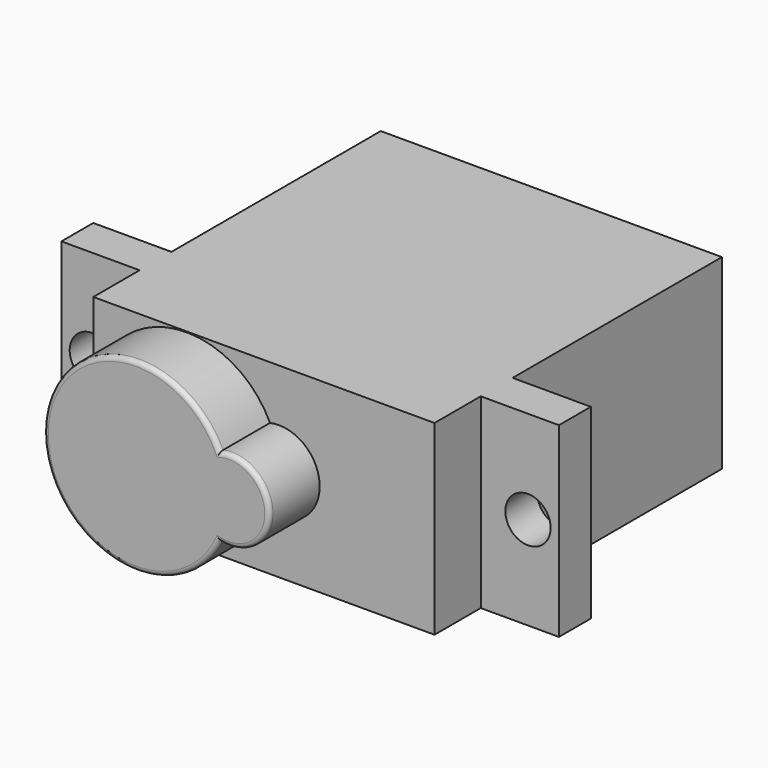
from build123d import *

# Parameters (mm, degrees)
PAD015_DEPTH            = 12.35
PAD016_DEPTH            = 4.17
SKETCH030_R             = 1.5
POCKET008_DEPTH         = 5
FILLET009_R             = 0.3
BODY006_PLACEMENT_ANGLE = 180


with BuildPart() as part:
    # Sketch028 → Pad015 (new body)
    with BuildSketch(Plane.XY):
        Polygon((0, 23.8), (22.6, 23.8), (22.6, 19.97), (27.78, 19.97), (27.78, 17.33), (22.6, 17.33), (22.6, 0), (0, 0), (0, 17.33), (-5.18, 17.33), (-5.18, 19.97), (0, 19.97), align=None)
    extrude(amount=PAD015_DEPTH)

    # Sketch029 (on Face4 of Pad015) → Pad016 (join)
    with BuildSketch(Plane(origin=(0, 23.8, 0), x_dir=(-1, 0, 0), z_dir=(0, 1, 0))):
        with BuildLine():
            ThreePointArc((-10.895586, 8.809617), (-22.55, 6.175), (-10.895586, 3.540383))
            ThreePointArc((-10.895586, 3.540383), (-7.605, 6.175), (-10.895586, 8.809617))
        make_face()
    extrude(amount=PAD016_DEPTH)

    # Sketch030 (on Face10 of Pad016) → Pocket008 (cut)
    with BuildSketch(Plane(origin=(0, 19.97, 0), x_dir=(-1, 0, 0), z_dir=(0, 1, 0))):
        with Locations((-25.73, 6.175)):
            Circle(SKETCH030_R)
        with Locations((3.13, 6.175)):
            Circle(SKETCH030_R)
    extrude(amount=-POCKET008_DEPTH, mode=Mode.SUBTRACT)

    # Fillet009
    fillet009_edges = [part.edges().sort_by_distance(p)[0] for p in [
        (22.55, 27.97, 6.175),
        (7.605, 27.97, 6.175),
    ]]
    fillet(fillet009_edges, radius=FILLET009_R)


with BuildPart() as part_1:
    # Body006 placement: moved
    add(part.part.moved(Location((215.339996, 8.309999, -25.78))).rotate(Axis((215.339996, 8.309999, -25.78), (0, 0, 1)), BODY006_PLACEMENT_ANGLE))


solid = part_1.part
